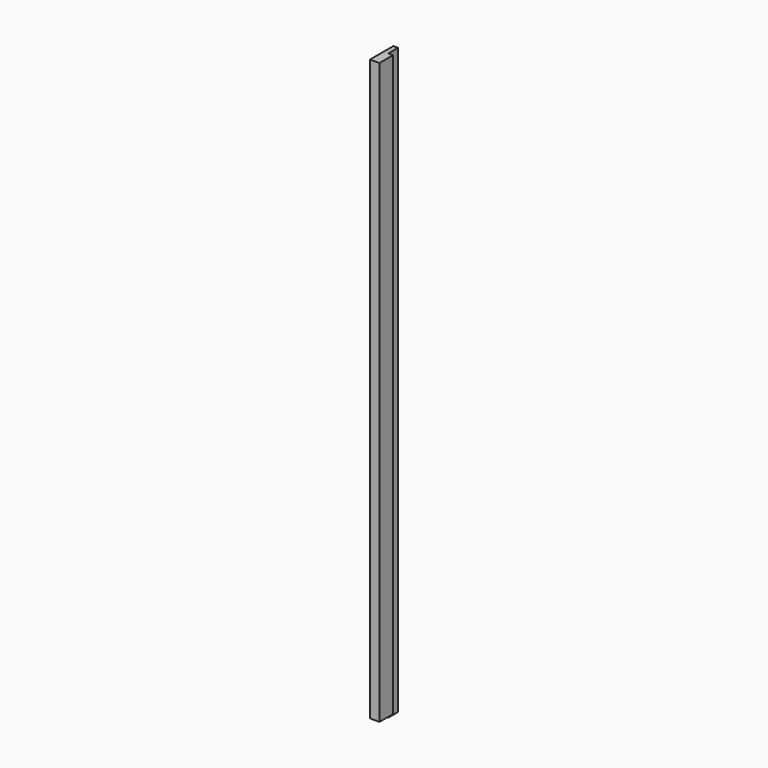
from build123d import *

# Parameters (mm, degrees)
F1_DEPTH      = 2355.85
F2_W          = 68.2625
F2_H          = 19.05
F3_DEPTH      = 21.1863303725
F3_DEPTH_BACK = 16.9156696275


with BuildPart() as f1:
    # F0 (on Top) → F1 (new body)
    with BuildSketch(Plane.XY):
        Polygon((-2.1353303725, -12.5172607846), (-2.1353303725, 36.6952392154), (-21.1853303725, 36.6952392154), (-21.1853303725, -80.7797607846), (16.9146696275, -80.7797607846), (16.9146696275, -12.5172607846), align=None)
    extrude(amount=F1_DEPTH)

    # F2 (on Right) → F3 (cut, two sides)
    with BuildSketch(Plane.YZ) as f3_sk:
        with Locations((-46.6485107846, 9.525)):
            Rectangle(F2_W, F2_H)
    extrude(amount=-F3_DEPTH, mode=Mode.SUBTRACT)
    extrude(f3_sk.sketch, amount=F3_DEPTH_BACK, mode=Mode.SUBTRACT)


solid = f1.part
